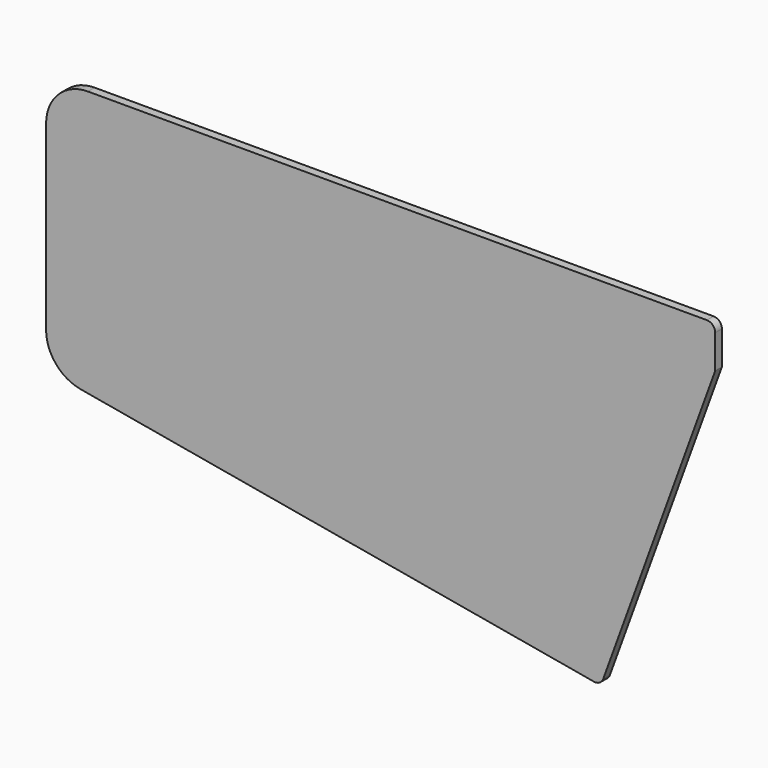
from build123d import *

# Parameters (mm, degrees)
F1_DEPTH = 0.5


with BuildPart() as f1:
    # F0 (on Front) → F1 (new body, symmetric)
    with BuildSketch(Plane.XZ):
        with BuildLine():
            ThreePointArc((5, 5), (1.464466, 3.535534), (0, 0))
            Line((0, 0), (80, 0))
            Line((80, 0), (80, 4))
            ThreePointArc((80, 4), (79.707107, 4.707107), (79, 5))
            Line((79, 5), (5, 5))
        make_face()
        with BuildLine():
            Line((80, 0), (0, 0))
            Line((0, 0), (0, -21.698343))
            ThreePointArc((0, -21.698343), (1.169778, -24.912281), (4.131759, -26.622382))
            Line((4.131759, -26.622382), (65.492842, -37.441997))
            ThreePointArc((65.492842, -37.441997), (66.166491, -37.323214), (66.606183, -36.799209))
            Line((66.606183, -36.799209), (80, 0))
        make_face()
    extrude(amount=F1_DEPTH, both=True)


solid = f1.part
